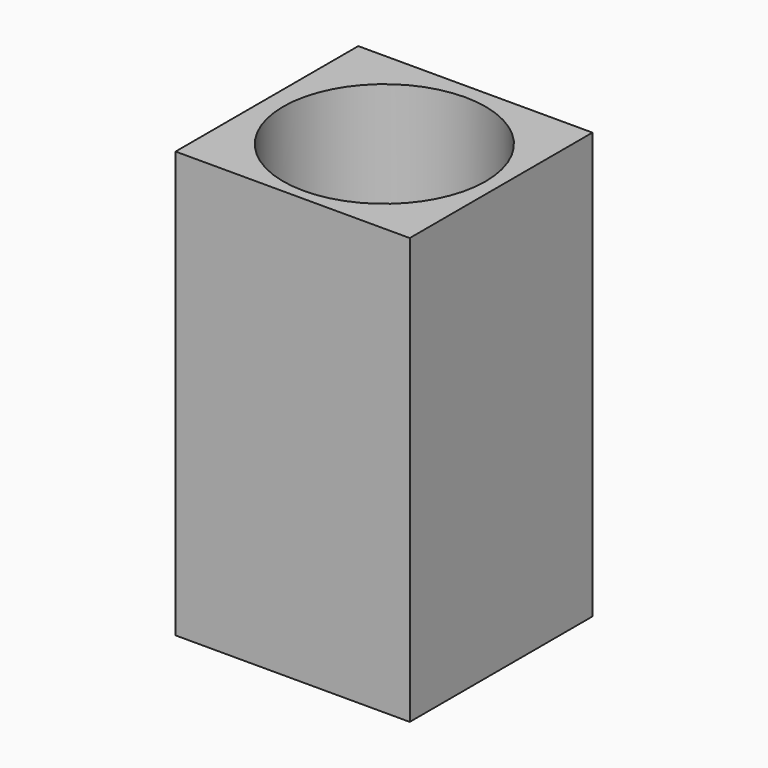
from build123d import *

# Parameters (mm, degrees)
F0_W     = 153.613642
F0_H     = 149.788901
F1_DEPTH = 279.4
F2_R     = 66.386711
F3_DEPTH = 254


with BuildPart() as f1:
    # F0 (on Top) → F1 (new body)
    with BuildSketch(Plane.XY):
        with Locations((-1.47555, 1.547002)):
            Rectangle(F0_W, F0_H)
    extrude(amount=F1_DEPTH)

    # F2 (on face) → F3 (cut)
    with BuildSketch(Plane.XY.offset(279.4)):
        Circle(F2_R)
    extrude(amount=-F3_DEPTH, mode=Mode.SUBTRACT)


solid = f1.part
